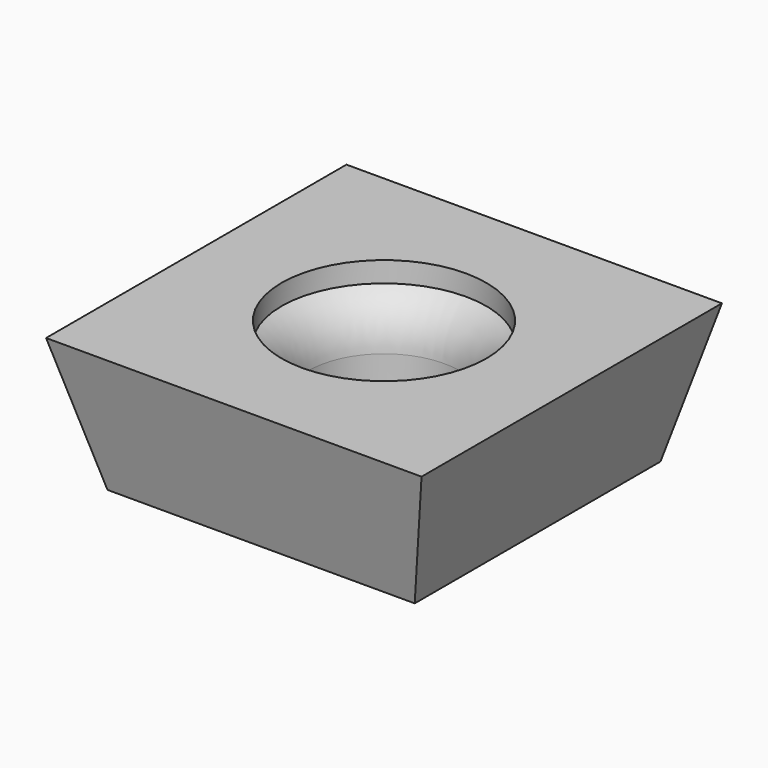
from build123d import *

# Parameters (mm, degrees)
F0_W = 11
F0_H = 11
F2_W = 9
F2_H = 9


with BuildPart() as f3:
    # F0 (on Top) → F3 section 0
    with BuildSketch(Plane.XY):
        Rectangle(F0_W, F0_H)
    # F2 (on offset) → F3 section 1
    with BuildSketch(Plane.XY.offset(-4)):
        Rectangle(F2_W, F2_H)
    loft()

    # F4 (on Front) → F5 (revolve, cut)
    with BuildSketch(Plane.XZ):
        with BuildLine():
            Line((0, -4), (2.2, -4))
            Line((2.2, -4), (2.2, -2))
            ThreePointArc((2.2, -2), (2.414105, -1.193774), (3, -0.6))
            Line((3, -0.6), (3, 0))
            Line((3, 0), (0, 0))
            Line((0, 0), (0, -4))
        make_face()
    revolve(axis=Axis((0, 0, -1.994932), (0, 0, -1)), mode=Mode.SUBTRACT)


solid = f3.part
